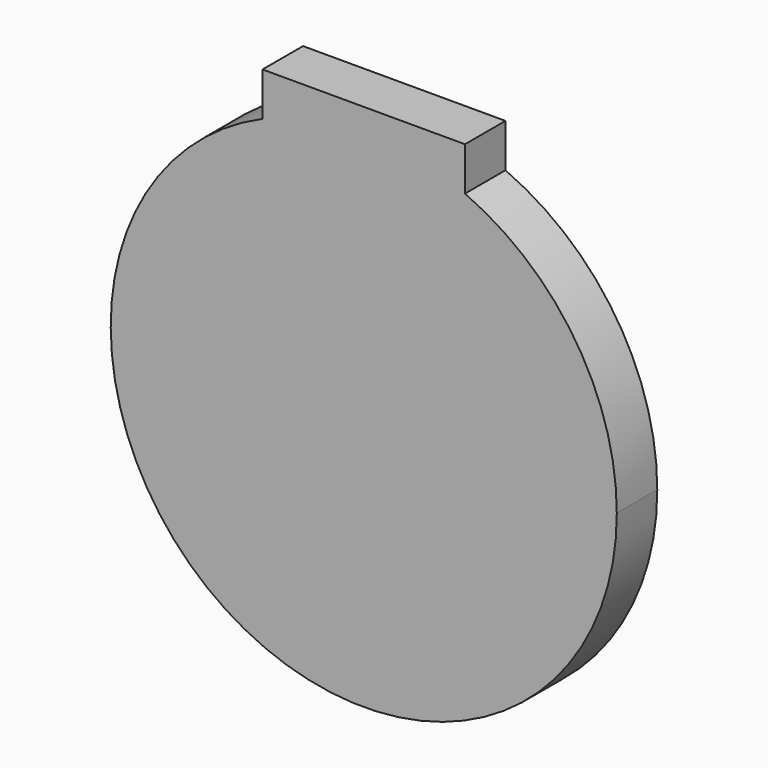
from build123d import *

# Parameters (mm, degrees)
F1_DEPTH = 6.35
F2_T     = -2.54


with BuildPart() as f1:
    # F0 (on Front) → F1 (new body)
    with BuildSketch(Plane.XZ):
        with BuildLine():
            ThreePointArc((-12.7, 29.099355663), (-17.3901912008, -26.5639558425), (31.75, 0))
            ThreePointArc((31.75, 0), (26.5639558425, 17.3901912008), (12.7, 29.099355663))
            Line((12.7, 29.099355663), (12.7, 28.9457047582))
            Line((12.7, 28.9457047582), (-12.7, 28.9457047582))
            Line((-12.7, 28.9457047582), (-12.7, 29.099355663))
        make_face()
        with BuildLine():
            Line((12.7, 28.9457047582), (12.7, 29.099355663))
            ThreePointArc((12.7, 29.099355663), (0, 31.75), (-12.7, 29.099355663))
            Line((-12.7, 29.099355663), (-12.7, 28.9457047582))
            Line((-12.7, 28.9457047582), (12.7, 28.9457047582))
        make_face()
        with BuildLine():
            ThreePointArc((-12.7, 29.099355663), (0, 31.75), (12.7, 29.099355663))
            Line((12.7, 29.099355663), (12.7, 34.5542952418))
            Line((12.7, 34.5542952418), (-12.7, 34.5542952418))
            Line((-12.7, 34.5542952418), (-12.7, 29.099355663))
        make_face()
    extrude(amount=F1_DEPTH)

    # F2
    f2_openings = [f1.faces().sort_by_distance(p)[0] for p in [
        (0, 0, 0.933743),
    ]]
    offset(amount=F2_T, openings=f2_openings, kind=Kind.INTERSECTION)


solid = f1.part
